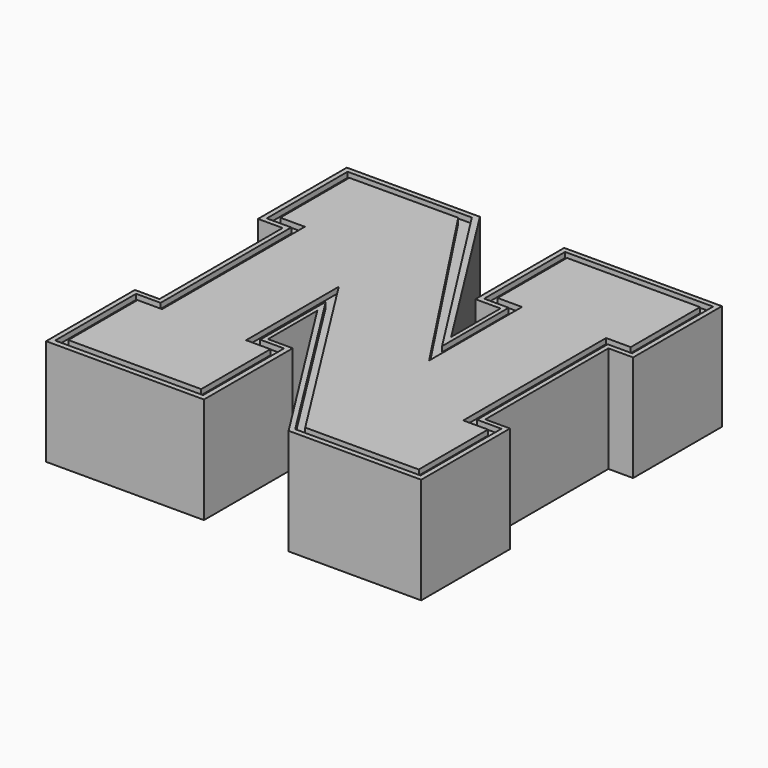
from build123d import *

# Parameters (mm, degrees)
F3_DEPTH = 6.35
F4_DEPTH = 5.715


with BuildPart() as f3:
    # F2 (on face) → F3 (new body, symmetric)
    with BuildSketch(Plane.XY):
        Polygon((-44.5433743298, 46.1763069034), (-57.5266592205, 46.1332164705), (-57.5266592205, 35.8126908541), (-54.5913651586, 35.8126908541), (-54.5913651586, 14.4700501114), (-57.5266592205, 14.4700501114), (-57.5266592205, 4.1293082759), (-41.6378863156, 4.1293082759), (-41.6378863156, 14.4700501114), (-44.5433743298, 14.4700501114), (-44.5433743298, 28.3214543015), (-29.1992705315, 4.1293082759), (-15.6220048666, 4.1293082759), (-15.6220048666, 14.4700501114), (-18.5752976686, 14.4700501114), (-18.5752976686, 35.8126908541), (-15.6220048666, 35.8126908541), (-15.6220048666, 46.1763069034), (-31.5383896232, 46.1763069034), (-31.5383896232, 35.8126908541), (-28.6253094673, 35.8126908541), (-28.6253094673, 21.92475833), align=None)
    extrude(amount=F3_DEPTH, both=True)



with BuildPart() as f3b:
    # F1 (on face) → F3, piece 2 (new body, symmetric)
    with BuildSketch(Plane.XY):
        Polygon((-56.0555362153, 34.3240606943), (-56.0555362153, 15.9201806872), (-59.0018344771, 15.9201806872), (-59.0018344771, 2.6492023655), (-40.1264553645, 2.6492023655), (-40.1264553645, 15.9219650984), (-43.0878697398, 15.9219650984), (-43.0878697398, 23.2951258444), (-30.0034182126, 2.6492023655), (-14.1497837651, 2.6492023655), (-14.1497837651, 15.9219650984), (-17.0993286024, 15.9219650984), (-17.0993286024, 34.3240606943), (-14.1497837651, 34.3240606943), (-14.1497837651, 47.5996589474), (-33.0122411207, 47.5996589474), (-33.0122411207, 34.3240606943), (-30.0034182126, 34.3240606943), (-30.0034182126, 26.9455498071), (-43.0878697398, 47.5996589474), (-59.0018344771, 47.5996589474), (-59.0018344771, 34.3240606943), align=None)
        Polygon((-58.4264323115, 34.9163971841), (-58.4264323115, 46.9940491021), (-43.5850694776, 47.013964504), (-29.5001640916, 24.9555353075), (-29.5001640916, 34.9163971841), (-32.4371978641, 34.9163971841), (-32.4371978641, 47.013964504), (-14.7387757897, 47.013964504), (-14.7387757897, 34.9163971841), (-17.6595617086, 34.9163971841), (-17.6595617086, 15.3841460124), (-14.7387757897, 15.3841460124), (-14.7387757897, 3.2841966022), (-29.7212973237, 3.2841966022), (-43.5850694776, 25.176089257), (-43.5850694776, 15.3841460124), (-40.7384447753, 15.3841460124), (-40.7384447753, 3.2841966022), (-58.4264323115, 3.2841966022), (-58.4264323115, 15.3841460124), (-55.4955154657, 15.3841460124), (-55.4955154657, 34.9163971841), align=None, mode=Mode.SUBTRACT)
    extrude(amount=F3_DEPTH, both=True)


with BuildPart() as f3_1:
    add(f3.part)

    add(f3b.part)  # F4 merges F3b
    # F2 (on face) → F4 (join, symmetric)
    with BuildSketch(Plane.XY):
        Polygon((-58.4264323115, 46.9940491021), (-58.4264323115, 34.9163971841), (-55.4955154657, 34.9163971841), (-55.4955154657, 15.3841460124), (-58.4264323115, 15.3841460124), (-58.4264323115, 3.2841966022), (-40.7384447753, 3.2841966022), (-40.7384447753, 15.3841460124), (-43.5850694776, 15.3841460124), (-43.5850694776, 25.176089257), (-29.7212973237, 3.2841966022), (-14.7387757897, 3.2841966022), (-14.7387757897, 15.3841460124), (-17.6595617086, 15.3841460124), (-17.6595617086, 34.9163971841), (-14.7387757897, 34.9163971841), (-14.7387757897, 47.013964504), (-32.4371978641, 47.013964504), (-32.4371978641, 34.9163971841), (-29.5001640916, 34.9163971841), (-29.5001640916, 24.9555353075), (-43.5850694776, 47.013964504), align=None)
        Polygon((-57.5266592205, 35.8126908541), (-57.5266592205, 46.1332164705), (-44.5433743298, 46.1763069034), (-28.6253094673, 21.92475833), (-28.6253094673, 35.8126908541), (-31.5383896232, 35.8126908541), (-31.5383896232, 46.1763069034), (-15.6220048666, 46.1763069034), (-15.6220048666, 35.8126908541), (-18.5752976686, 35.8126908541), (-18.5752976686, 14.4700501114), (-15.6220048666, 14.4700501114), (-15.6220048666, 4.1293082759), (-29.1992705315, 4.1293082759), (-44.5433743298, 28.3214543015), (-44.5433743298, 14.4700501114), (-41.6378863156, 14.4700501114), (-41.6378863156, 4.1293082759), (-57.5266592205, 4.1293082759), (-57.5266592205, 14.4700501114), (-54.5913651586, 14.4700501114), (-54.5913651586, 35.8126908541), align=None, mode=Mode.SUBTRACT)
    extrude(amount=F4_DEPTH, both=True)


solid = f3_1.part
